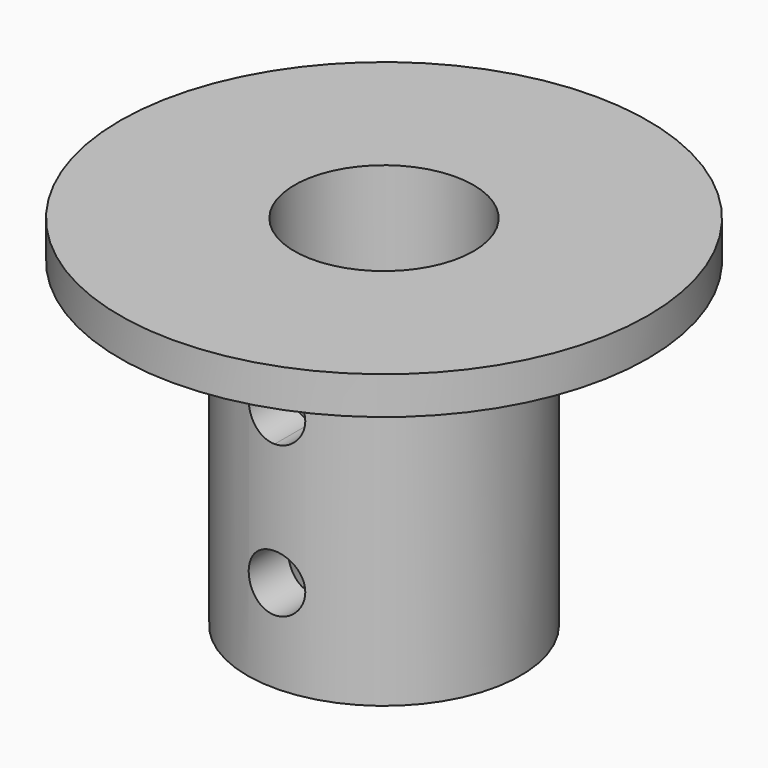
from build123d import *

# Parameters (mm, degrees)
F2_R     = 9.5
F3_DEPTH = 50
F5_DEPTH = 30


with BuildPart() as f1:
    # F0 (on Front) → F1 (revolve)
    with BuildSketch(Plane.XZ):
        Polygon((-28, 16), (-14.5, 11), (-14.5, -18), (0, -18), (0, 20), (-28, 20), align=None)
    revolve(axis=Axis((0, 0, 1), (0, 0, -1)))

    # F2 (on Top) → F3 (cut, symmetric)
    with BuildSketch(Plane.XY):
        Circle(F2_R)
    extrude(amount=F3_DEPTH, both=True, mode=Mode.SUBTRACT)

    # F4 (on Front) → F5 (cut)
    with BuildSketch(Plane.XZ):
        with BuildLine():
            ThreePointArc((3, 7.7993366867), (2.1213203436, 9.9206570303), (0, 10.7993366867))
            Line((0, 10.7993366867), (0, 4.7993366867))
            ThreePointArc((0, 4.7993366867), (2.1213203436, 5.6780163432), (3, 7.7993366867))
        make_face()
        with BuildLine():
            ThreePointArc((3, -8.1787835807), (2.1213203436, -6.0574632371), (0, -5.1787835807))
            ThreePointArc((0, -5.1787835807), (-2.1213203436, -10.3001039242), (3, -8.1787835807))
        make_face()
        with BuildLine():
            Line((0, 4.7993366867), (0, 10.7993366867))
            ThreePointArc((0, 10.7993366867), (-3, 7.7993366867), (0, 4.7993366867))
        make_face()
    extrude(amount=F5_DEPTH, mode=Mode.SUBTRACT)


solid = f1.part
